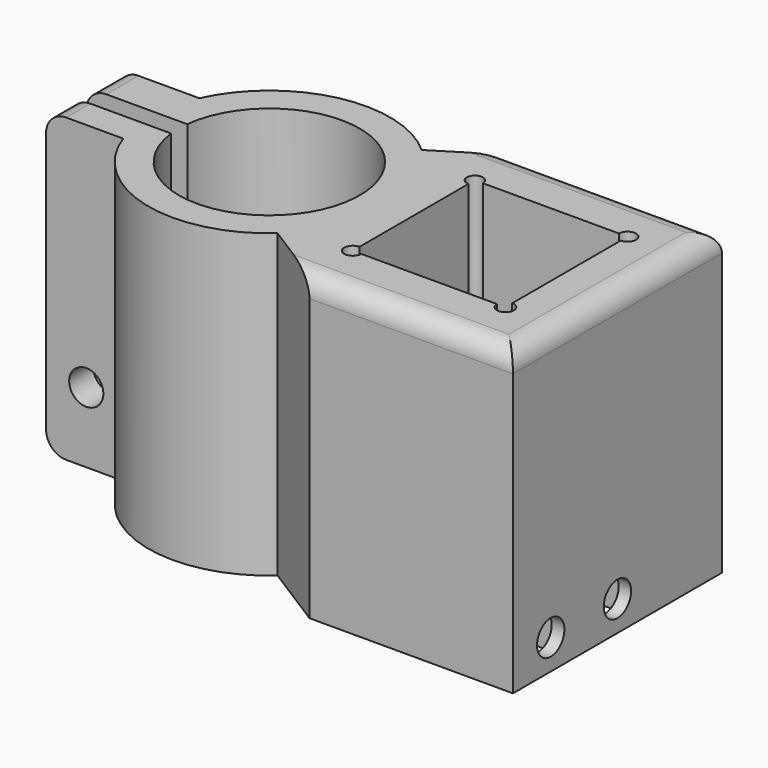
from build123d import *

# Parameters (mm, degrees)
SKETCH_W        = 53.671384
SKETCH_H        = 26
PAD_DEPTH       = 30
SKETCH001_W     = 15.2
SKETCH001_H     = 15.2
POCKET_DEPTH    = 30.001
SKETCH002_R     = 0.848528
SKETCH002_R_2   = 0.793369
POCKET001_DEPTH = 30.001
SKETCH003_W     = 2.8
SKETCH003_H     = 5.6
POCKET002_DEPTH = 6
SKETCH004_R     = 1.7
POCKET003_DEPTH = 6
SKETCH005_R     = 1.7
POCKET004_DEPTH = 17.001
POCKET005_DEPTH = 3
FILLET_R        = 2
FILLET001_R     = 2


with BuildPart() as part:
    # Sketch → Pad (new body)
    with BuildSketch(Plane.XY):
        with Locations((-14.164308, 0)):
            Rectangle(SKETCH_W, SKETCH_H)
    extrude(amount=PAD_DEPTH)

    # Sketch001 → Pocket (cut, through all)
    with BuildSketch(Plane(origin=(0, 0, 0), x_dir=(1, 0, 0), z_dir=(0, 0, -1))):
        Rectangle(SKETCH001_W, SKETCH001_H)
        with BuildLine():
            ThreePointArc((-30.947343, -1), (-13.000044, -0.055902), (-30.941113, 1))
            Line((-42, 1), (-30.941113, 1))
            Line((-42, -1), (-42, 1))
            Line((-30.947343, -1), (-42, -1))
        make_face()
        with BuildLine():
            ThreePointArc((-14, 8.944272), (-24.9794, 11.617839), (-33.325879, 4))
            Line((-43, 4), (-33.325879, 4))
            Line((-43, 4), (-43, 14))
            Line((-43, 14), (-6, 14))
            Line((-6, 14), (-14, 8.944272))
        make_face()
        with BuildLine():
            Line((-6, -14), (-43, -14))
            Line((-43, -14), (-43, -5))
            Line((-32.944272, -5), (-43, -5))
            ThreePointArc((-32.944272, -5), (-24.483382, -11.789328), (-14, -9))
            Line((-14, -9), (-6, -14))
        make_face()
    extrude(amount=-POCKET_DEPTH, mode=Mode.SUBTRACT)

    # Sketch002 → Pocket001 (cut, through all)
    with BuildSketch(Plane(origin=(0, 0, 0), x_dir=(1, 0, 0), z_dir=(0, 0, -1))):
        with Locations((7.6, -7.6)):
            Circle(SKETCH002_R)
        with Locations((-7.6, -7.6)):
            Circle(SKETCH002_R_2)
        with Locations((-7.6, 7.6)):
            Circle(SKETCH002_R)
        with Locations((7.6, 7.6)):
            Circle(SKETCH002_R)
    extrude(amount=-POCKET001_DEPTH, mode=Mode.SUBTRACT)

    # Sketch003 → Pocket002 (cut)
    with BuildSketch(Plane(origin=(0, 0, 0), x_dir=(1, 0, 0), z_dir=(0, 0, -1))):
        with Locations((10.009827, 8.414147)):
            Rectangle(SKETCH003_W, SKETCH003_H)
        with Locations((10.034181, -0.129832)):
            Rectangle(SKETCH003_W, SKETCH003_H)
    extrude(amount=-POCKET002_DEPTH, mode=Mode.SUBTRACT)

    # Sketch004 → Pocket003 (cut)
    with BuildSketch(Plane.YZ.offset(12.671384)):
        with Locations((0, 3)):
            Circle(SKETCH004_R)
        with Locations((-8.303802, 3)):
            Circle(SKETCH004_R)
    extrude(amount=-POCKET003_DEPTH, mode=Mode.SUBTRACT)

    # Sketch005 → Pocket004 (cut, through all)
    with BuildSketch(Plane.XZ.offset(4)):
        with Locations((-37, 7)):
            Circle(SKETCH005_R)
    extrude(amount=-POCKET004_DEPTH, mode=Mode.SUBTRACT)

    # Sketch006 → Pocket005 (cut)
    with BuildSketch(Plane(origin=(0, 5, 0), x_dir=(-1, 0, 0), z_dir=(0, 1, 0))):
        Polygon((39.692655, 8.990714), (36.622319, 10.327265), (33.929664, 8.336551), (34.307345, 5.009286), (37.377681, 3.672735), (40.070336, 5.663449), align=None)
    extrude(amount=-POCKET005_DEPTH, mode=Mode.SUBTRACT)

    # Fillet
    fillet_edges = [part.edges().sort_by_distance(p)[0] for p in [
        (2.54451, -13, 30),
        (12.671384, 0, 30),
        (2.535692, 13, 30),
        (-41, -2.5, 30),
        (-41, 3, 30),
    ]]
    fillet(fillet_edges, radius=FILLET_R)

    # Fillet001
    fillet001_edges = [part.edges().sort_by_distance(p)[0] for p in [
        (-41, 3, 0),
        (-41, -2.5, 0),
    ]]
    fillet(fillet001_edges, radius=FILLET001_R)


solid = part.part
